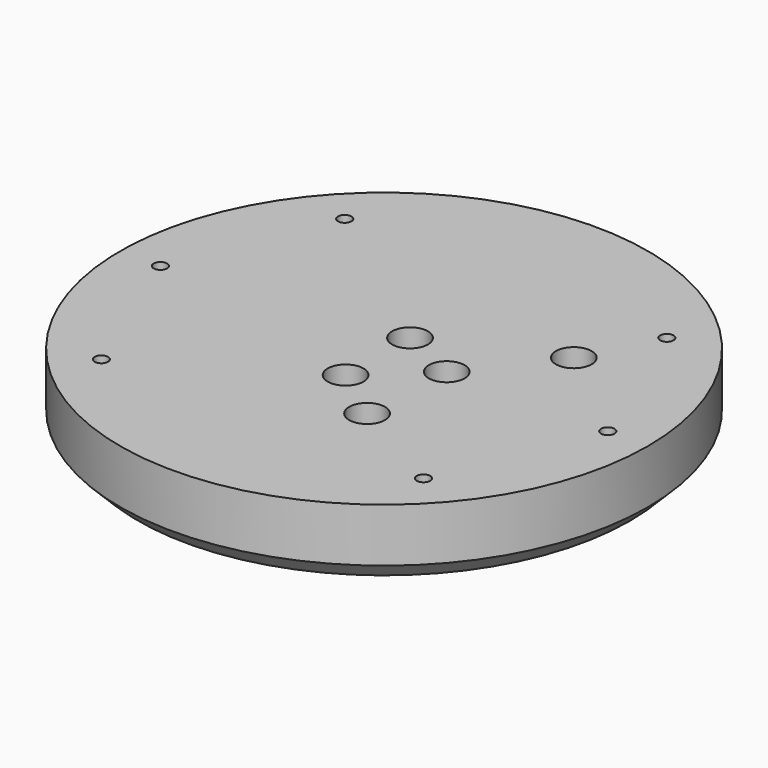
from build123d import *

# Parameters (mm, degrees)
CYLINDER1498_R     = 4
CYLINDER1498_DEPTH = 100
CYLINDER1497_R     = 4
CYLINDER1497_DEPTH = 100
CYLINDER1434_R     = 1.5
CYLINDER1434_DEPTH = 100
CYLINDER1435_R     = 1.5
CYLINDER1435_DEPTH = 100
CYLINDER1436_R     = 1.5
CYLINDER1436_DEPTH = 100
CYLINDER1437_R     = 1.5
CYLINDER1437_DEPTH = 100
CYLINDER1438_R     = 1.5
CYLINDER1438_DEPTH = 100
CYLINDER1433_R     = 1.5
CYLINDER1433_DEPTH = 100
CYLINDER1473_R     = 4
CYLINDER1473_DEPTH = 100
CYLINDER1474_R     = 4
CYLINDER1474_DEPTH = 100
CYLINDER1475_R     = 4
CYLINDER1475_DEPTH = 100
CYLINDER1471_R     = 4
CYLINDER1471_DEPTH = 100
CYLINDER1476_R     = 4
CYLINDER1476_DEPTH = 100
CYLINDER1472_R     = 4
CYLINDER1472_DEPTH = 100
CYLINDER1458_R     = 4
CYLINDER1458_DEPTH = 20
CYLINDER1459_R     = 4
CYLINDER1459_DEPTH = 20
CYLINDER1460_R     = 4
CYLINDER1460_DEPTH = 20
CYLINDER1461_R     = 4
CYLINDER1461_DEPTH = 40
CYLINDER1462_R     = 4
CYLINDER1462_DEPTH = 40
CYLINDER1463_R     = 4
CYLINDER1463_DEPTH = 40
CYLINDER1464_R     = 4
CYLINDER1464_DEPTH = 40
CYLINDER1457_R     = 4
CYLINDER1457_DEPTH = 20
CYLINDER1439_R     = 59
CYLINDER1439_DEPTH = 16
CHAMFER037_SIZE    = 4


with BuildPart() as obj1:
    # Cylinder1498 → Cylinder1498 (new body)
    with BuildSketch(Plane(origin=(14, 0, -18), x_dir=(1, 0, 0), z_dir=(0, 0, 1))):
        Circle(CYLINDER1498_R)
    extrude(amount=CYLINDER1498_DEPTH)


with BuildPart() as obj2:
    # Cylinder1497 → Cylinder1497 (new body)
    with BuildSketch(Plane(origin=(90, 0, -18), x_dir=(1, 0, 0), z_dir=(0, 0, 1))):
        Circle(CYLINDER1497_R)
    extrude(amount=CYLINDER1497_DEPTH)

    # Compound906: union obj1
    add(obj1.part)


with BuildPart() as obj3:
    # Cylinder1434 → Cylinder1434 (new body)
    with BuildSketch(Plane(origin=(-36, 34, -60), x_dir=(1, 0, 0), z_dir=(0, 0, 1))):
        Circle(CYLINDER1434_R)
    extrude(amount=CYLINDER1434_DEPTH)


with BuildPart() as obj4:
    # Cylinder1435 → Cylinder1435 (new body)
    with BuildSketch(Plane(origin=(-36, -34, -60), x_dir=(1, 0, 0), z_dir=(0, 0, 1))):
        Circle(CYLINDER1435_R)
    extrude(amount=CYLINDER1435_DEPTH)


with BuildPart() as obj5:
    # Cylinder1436 → Cylinder1436 (new body)
    with BuildSketch(Plane(origin=(50, 0, -60), x_dir=(1, 0, 0), z_dir=(0, 0, 1))):
        Circle(CYLINDER1436_R)
    extrude(amount=CYLINDER1436_DEPTH)


with BuildPart() as obj6:
    # Cylinder1437 → Cylinder1437 (new body)
    with BuildSketch(Plane(origin=(36, 34, -60), x_dir=(1, 0, 0), z_dir=(0, 0, 1))):
        Circle(CYLINDER1437_R)
    extrude(amount=CYLINDER1437_DEPTH)


with BuildPart() as obj7:
    # Cylinder1438 → Cylinder1438 (new body)
    with BuildSketch(Plane(origin=(36, -34, -60), x_dir=(1, 0, 0), z_dir=(0, 0, 1))):
        Circle(CYLINDER1438_R)
    extrude(amount=CYLINDER1438_DEPTH)


with BuildPart() as obj8:
    # Cylinder1433 → Cylinder1433 (new body)
    with BuildSketch(Plane(origin=(-50, 0, -60), x_dir=(1, 0, 0), z_dir=(0, 0, 1))):
        Circle(CYLINDER1433_R)
    extrude(amount=CYLINDER1433_DEPTH)

    # Compound893: union obj3, obj4, obj5, obj6, obj7
    add(obj3.part)
    add(obj4.part)
    add(obj5.part)
    add(obj6.part)
    add(obj7.part)


with BuildPart() as obj9:
    # Cylinder1473 → Cylinder1473 (new body)
    with BuildSketch(Plane(origin=(-36, 34, -90), x_dir=(1, 0, 0), z_dir=(0, 0, 1))):
        Circle(CYLINDER1473_R)
    extrude(amount=CYLINDER1473_DEPTH)


with BuildPart() as obj10:
    # Cylinder1474 → Cylinder1474 (new body)
    with BuildSketch(Plane(origin=(-36, -34, -90), x_dir=(1, 0, 0), z_dir=(0, 0, 1))):
        Circle(CYLINDER1474_R)
    extrude(amount=CYLINDER1474_DEPTH)


with BuildPart() as obj11:
    # Cylinder1475 → Cylinder1475 (new body)
    with BuildSketch(Plane(origin=(50, 0, -90), x_dir=(1, 0, 0), z_dir=(0, 0, 1))):
        Circle(CYLINDER1475_R)
    extrude(amount=CYLINDER1475_DEPTH)


with BuildPart() as obj12:
    # Cylinder1471 → Cylinder1471 (new body)
    with BuildSketch(Plane(origin=(36, 34, -90), x_dir=(1, 0, 0), z_dir=(0, 0, 1))):
        Circle(CYLINDER1471_R)
    extrude(amount=CYLINDER1471_DEPTH)


with BuildPart() as obj13:
    # Cylinder1476 → Cylinder1476 (new body)
    with BuildSketch(Plane(origin=(36, -34, -90), x_dir=(1, 0, 0), z_dir=(0, 0, 1))):
        Circle(CYLINDER1476_R)
    extrude(amount=CYLINDER1476_DEPTH)


with BuildPart() as obj14:
    # Cylinder1472 → Cylinder1472 (new body)
    with BuildSketch(Plane(origin=(-50, 0, -90), x_dir=(1, 0, 0), z_dir=(0, 0, 1))):
        Circle(CYLINDER1472_R)
    extrude(amount=CYLINDER1472_DEPTH)

    # Compound898: union obj9, obj10, obj11, obj12, obj13
    add(obj9.part)
    add(obj10.part)
    add(obj11.part)
    add(obj12.part)
    add(obj13.part)


with BuildPart() as obj15:
    # Cylinder1458 → Cylinder1458 (new body)
    with BuildSketch(Plane(origin=(103, 6, -20), x_dir=(1, 0, 0), z_dir=(0, 0, 1))):
        Circle(CYLINDER1458_R)
    extrude(amount=CYLINDER1458_DEPTH)


with BuildPart() as obj16:
    # Cylinder1459 → Cylinder1459 (new body)
    with BuildSketch(Plane(origin=(76, 18, -18), x_dir=(1, 0, 0), z_dir=(0, 0, 1))):
        Circle(CYLINDER1459_R)
    extrude(amount=CYLINDER1459_DEPTH)


with BuildPart() as obj17:
    # Cylinder1460 → Cylinder1460 (new body)
    with BuildSketch(Plane(origin=(91, -21, -18), x_dir=(1, 0, 0), z_dir=(0, 0, 1))):
        Circle(CYLINDER1460_R)
    extrude(amount=CYLINDER1460_DEPTH)


with BuildPart() as obj18:
    # Cylinder1461 → Cylinder1461 (new body)
    with BuildSketch(Plane(origin=(13, -21, -18), x_dir=(1, 0, 0), z_dir=(0, 0, 1))):
        Circle(CYLINDER1461_R)
    extrude(amount=CYLINDER1461_DEPTH)


with BuildPart() as obj19:
    # Cylinder1462 → Cylinder1462 (new body)
    with BuildSketch(Plane(origin=(28, 18, -18), x_dir=(1, 0, 0), z_dir=(0, 0, 1))):
        Circle(CYLINDER1462_R)
    extrude(amount=CYLINDER1462_DEPTH)


with BuildPart() as obj20:
    # Cylinder1463 → Cylinder1463 (new body)
    with BuildSketch(Plane(origin=(1, -12, -18), x_dir=(1, 0, 0), z_dir=(0, 0, 1))):
        Circle(CYLINDER1463_R)
    extrude(amount=CYLINDER1463_DEPTH)


with BuildPart() as obj21:
    # Cylinder1464 → Cylinder1464 (new body)
    with BuildSketch(Plane(origin=(1, 6, -18), x_dir=(1, 0, 0), z_dir=(0, 0, 1))):
        Circle(CYLINDER1464_R)
    extrude(amount=CYLINDER1464_DEPTH)


with BuildPart() as obj22:
    # Cylinder1457 → Cylinder1457 (new body)
    with BuildSketch(Plane(origin=(103, -12, -20), x_dir=(1, 0, 0), z_dir=(0, 0, 1))):
        Circle(CYLINDER1457_R)
    extrude(amount=CYLINDER1457_DEPTH)

    # Compound896: union obj15, obj16, obj17, obj18, obj19, obj20, obj21
    add(obj15.part)
    add(obj16.part)
    add(obj17.part)
    add(obj18.part)
    add(obj19.part)
    add(obj20.part)
    add(obj21.part)


with BuildPart() as cut542:
    # Cylinder1439 → Cylinder1439 (new body)
    with BuildSketch(Plane.XY.offset(2)):
        Circle(CYLINDER1439_R)
    extrude(amount=CYLINDER1439_DEPTH)

    # Cut525: cut obj22
    add(obj22.part, mode=Mode.SUBTRACT)

    # Cut529: cut obj14
    add(obj14.part, mode=Mode.SUBTRACT)

    # Cut531: cut obj8
    add(obj8.part, mode=Mode.SUBTRACT)

    # Chamfer037
    chamfer037_edges = [cut542.edges().sort_by_distance(p)[0] for p in [
        (-59, 0, 2),
    ]]
    chamfer(chamfer037_edges, length=CHAMFER037_SIZE)

    # Cut542: cut obj2
    add(obj2.part, mode=Mode.SUBTRACT)


with BuildPart() as cut542_1:
    # Cut542 placement: moved
    add(cut542.part.moved(Location((0, 0, 4))))


solid = cut542_1.part
